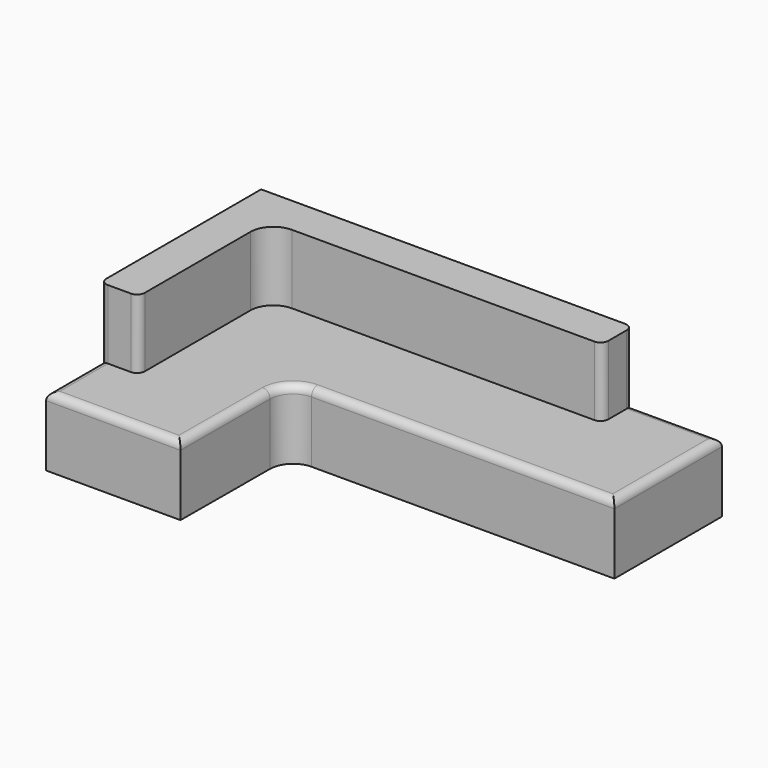
from build123d import *

# Parameters (mm, degrees)
F1_DEPTH = 457.2
F3_DEPTH = 457.2
F4_R     = 152.4
F5_R     = 50.8


with BuildPart() as f1:
    # F0 (on Top) → F1 (new body)
    with BuildSketch(Plane.XY):
        Polygon((-547.3713837611, -889.8000992239), (341.6286162389, -889.8000992239), (345.7063734531, -0.8000992239), (2500.6286162389, -0.8000992239), (2500.6286162389, 888.1999007761), (-547.3713837611, 888.1999007761), align=None)
    extrude(amount=F1_DEPTH)

    # F2 (on face) → F3 (join)
    with BuildSketch(Plane.XY.offset(457.2)):
        Polygon((-547.3713837611, 888.1999007761), (-547.3713837611, -442.0930147171), (-293.3713837611, -442.0930147171), (-293.3713837611, 634.1999007761), (1911.5686416626, 634.1999007761), (1911.5686416626, 888.1999007761), align=None)
    extrude(amount=F3_DEPTH)

    # F4
    f4_edges = [f1.edges().sort_by_distance(p)[0] for p in [
        (-293.371384, 634.199901, 685.8),
        (345.706373, -0.800099, 228.6),
    ]]
    fillet(f4_edges, radius=F4_R)

    # F5
    f5_edges = [f1.edges().sort_by_distance(p)[0] for p in [
        (1911.568642, 634.199901, 685.8),
        (1911.568642, 888.199901, 685.8),
        (2500.628616, 443.699901, 457.2),
        (-102.871384, -889.800099, 457.2),
        (343.319576, -521.150581, 457.2),
        (2206.098629, 888.199901, 457.2),
        (-547.371384, -665.946557, 457.2),
        (-293.371384, -442.093015, 685.8),
        (-547.371384, -442.093015, 685.8),
    ]]
    fillet(f5_edges, radius=F5_R)


solid = f1.part
